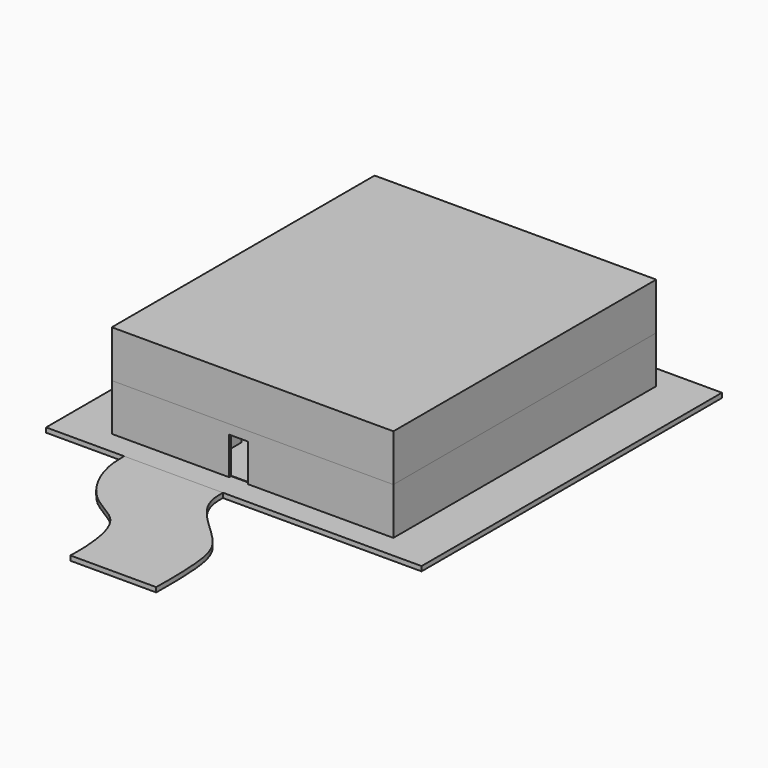
from build123d import *

# Parameters (mm, degrees)
F0_W      = 2032
F0_H      = 2032
F1_DEPTH  = 25.4
F2_W      = 1524
F2_H      = 1778
F3_DEPTH  = 254
F4_W      = 1524
F4_H      = 1778
F5_DEPTH  = 254
F6_W      = 1498.6
F6_H      = 1752.6
F7_DEPTH  = 251.46
F9_DEPTH  = 25.4
F10_W     = 254
F10_H     = 228.6
F10_W_2   = 508
F11_DEPTH = 12.7
F12_W     = 10.16
F12_H     = 457.2
F13_DEPTH = 251.46
F14_W     = 101.6
F14_H     = 203.2
F15_DEPTH = 12.7
F16_W     = 152.4
F16_H     = 152.4
F17_DEPTH = 96.52
F18_W     = 50.8
F18_H     = 264.3253242493
F19_DEPTH = 5.08
F20_W     = 152.4
F20_H     = 203.2
F21_DEPTH = 25.4


with BuildPart() as f1:
    # F0 (on Top) → F1 (new body)
    with BuildSketch(Plane.XY):
        Rectangle(F0_W, F0_H)
    extrude(amount=F1_DEPTH)


with BuildPart() as f3:
    # F2 (on face) → F3 (new body)
    with BuildSketch(Plane.XY.offset(25.4)):
        Rectangle(F2_W, F2_H)
    extrude(amount=F3_DEPTH)

    # F6 (on face) → F7 (cut)
    with BuildSketch(Plane.XY.offset(279.4)):
        Rectangle(F6_W, F6_H)
    extrude(amount=-F7_DEPTH, mode=Mode.SUBTRACT)

    # F10 (on face) → F11 (cut, through all)
    with BuildSketch(Plane(origin=(-762, 0, 0), x_dir=(0, -1, 0), z_dir=(-1, 0, 0))):
        with Locations((-706.7724208832, 139.7)):
            Rectangle(F10_W, F10_H)
        with Locations((-262.2724208832, 139.7)):
            Rectangle(F10_W_2, F10_H)
    extrude(amount=-F11_DEPTH, mode=Mode.SUBTRACT)

    # F12 (on face) → F13 (join, through all)
    with BuildSketch(Plane.XY.offset(27.94)):
        Polygon((-749.3, -37.2344880068), (-749.3, -47.3944880068), (-219.8577076197, -47.3944880068), (-209.6977076197, -47.3944880068), (-209.6977076197, -37.2344880068), (-209.6977076197, 876.3), (-219.8577076197, 876.3), (-219.8577076197, -37.2344880068), align=None)
        Polygon((-368.3, -612.14), (-749.3, -612.14), (-749.3, -622.3), (-368.3, -622.3), (-368.3, -876.3), (-358.14, -876.3), (-358.14, -622.3), (-292.1, -622.3), (-292.1, -876.3), (-281.94, -876.3), (-281.94, -622.3), (-281.94, -612.14), (-358.14, -612.14), align=None)
        with Locations((83.82, 647.7)):
            Rectangle(F12_W, F12_H)
        Polygon((749.3, 434.34), (749.3, 444.5), (520.7, 444.5), (317.5, 444.5), (317.5, 434.34), (317.5, 256.54), (317.5, 246.38), (749.3, 246.38), (749.3, 256.54), (520.7, 256.54), (327.66, 256.54), (327.66, 434.34), align=None)
        Polygon((749.3, 434.34), (749.3, 444.5), (520.7, 444.5), (317.5, 444.5), (317.5, 434.34), (317.5, 256.54), (317.5, 246.38), (749.3, 246.38), (749.3, 256.54), (520.7, 256.54), (327.66, 256.54), (327.66, 434.34), align=None)
    extrude(amount=F13_DEPTH)

    # F14 (on face) → F15 (cut, through all)
    with BuildSketch(Plane.XZ.offset(889)):
        with Locations((-76.2, 127)):
            Rectangle(F14_W, F14_H)
    extrude(amount=-F15_DEPTH, mode=Mode.SUBTRACT)

    # F20 (on face) → F21 (cut)
    with BuildSketch(Plane(origin=(0, 444.5, 0), x_dir=(-1, 0, 0), z_dir=(0, 1, 0))):
        with Locations((-533.4, 129.54)):
            Rectangle(F20_W, F20_H)
    extrude(amount=-F21_DEPTH, mode=Mode.SUBTRACT)


with BuildPart() as f5:
    # F4 (on face) → F5 (new body)
    with BuildSketch(Plane.XY.offset(279.4)):
        Rectangle(F4_W, F4_H)
    extrude(amount=F5_DEPTH)


with BuildPart() as f9:
    # F8 (on face) → F9 (new body)
    with BuildSketch(Plane.XY.offset(25.4)):
        with BuildLine():
            Line((-58.6583714405, -1016), (-593.6688348535, -1016))
            add(Edge.make_bspline(
                [(-593.6688348535, -1016), (-594.360714053, -1059.8867295439), (-585.0651189783, -1193.5239520487), (-459.1190670382, -1411.2646677711), (-248.2419739751, -1479.02246379), (-200.9736880033, -1713.6169998853), (-202.7823744553, -1818.6935418855), (-203.6137580872, -1866.9931888575)],
                knots=[0.1054044545, 0.1054044545, 0.1054044545, 0.1054044545, 0.2164959633, 0.4417006838, 0.6340784465, 0.8317999287, 1, 1, 1, 1], degree=3))
            Line((-203.6137580872, -1866.9931888575), (260.5878098599, -1866.9931888575))
            add(Edge.make_bspline(
                [(-58.6583714405, -1016), (-60.7820202944, -1056.9303276014), (-47.1032761734, -1186.1559578726), (176.8589632329, -1357.376931496), (259.2956250273, -1502.740133951), (262.6071849495, -1730.8381945239), (260.5878098599, -1866.9931888575)],
                knots=[0.1137988437, 0.1137988437, 0.1137988437, 0.1137988437, 0.2276232253, 0.4807491539, 0.6765731599, 0.9158436382, 0.9158436382, 0.9158436382, 0.9158436382], degree=3))
        make_face()
    extrude(amount=-F9_DEPTH)


with BuildPart() as f17:
    # F16 (on face) → F17 (new body)
    with BuildSketch(Plane.XY.offset(27.94)):
        with Locations((533.4, 660.4)):
            Rectangle(F16_W, F16_H)
    extrude(amount=F17_DEPTH)


with BuildPart() as f17b:
    # F16 (on face) → F17, piece 2 (new body)
    with BuildSketch(Plane.XY.offset(27.94)):
        Polygon((749.3, 812.8), (749.3, 876.3), (685.8, 876.3), (317.5, 876.3), (317.5, 812.8), (317.5, 611.9746757507), (381, 611.9746757507), (381, 812.8), (685.8, 812.8), (685.8, 584.2), (749.3, 584.2), align=None)
    extrude(amount=F17_DEPTH)

    # F18 (on face) → F19 (join)
    with BuildSketch(Plane.XY.offset(124.46)):
        with Locations((292.1, 744.1373378754)):
            Rectangle(F18_W, F18_H)
    extrude(amount=-F19_DEPTH)


solid = Compound([f1.part, f3.part, f5.part, f9.part, f17.part, f17b.part])
